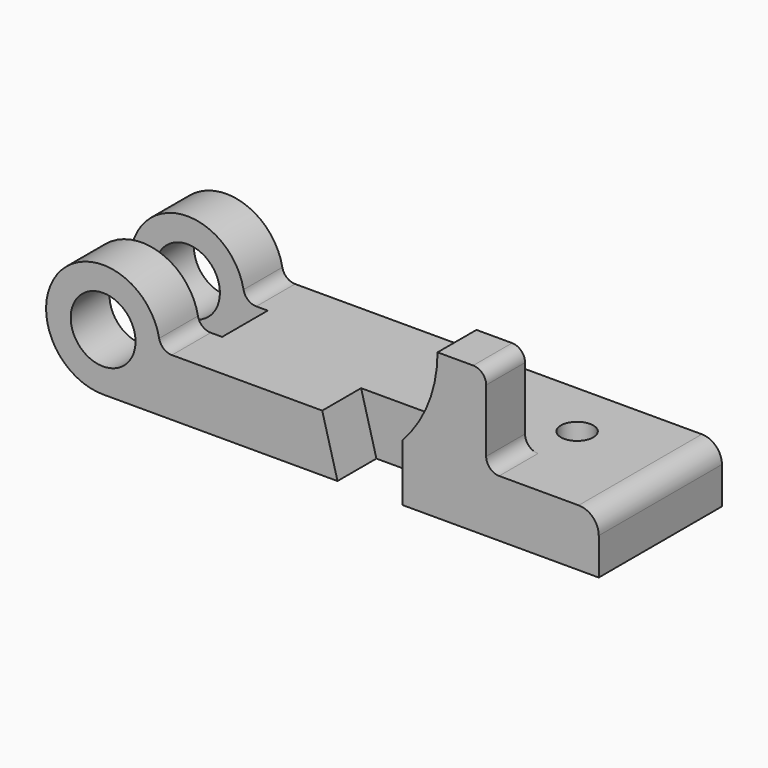
from build123d import *

# Parameters (mm, degrees)
F1_DEPTH      = 60.325
F2_R          = 12.7
F3_DEPTH      = 60.326
F4_DEPTH      = 19.05
F5_W          = 37.9222
F5_H          = 41.275
F6_DEPTH      = 34.798
F7_R          = 6.35
F7_W          = 53.7857485574
F7_H          = 22.3266
F8_DEPTH      = 9.5573214296
F8_DEPTH_BACK = 47.5946785704


with BuildPart() as f1:
    # F0 (on Front) → F1 (new body)
    with BuildSketch(Plane.XZ):
        with BuildLine():
            ThreePointArc((-68.6650304641, 12.7956785704), (-71.9075169357, 13.9650927471), (-73.6571649634, 16.9349378297))
            ThreePointArc((-73.6571649634, 16.9349378297), (-112.8291343827, 27.0626190455), (-95.6225567601, -9.5563214296))
            Line((-95.6225567601, -9.5563214296), (98.5858432399, -9.5563214296))
            Line((98.5858432399, -9.5563214296), (98.5858432399, 4.9216785704))
            ThreePointArc((98.5858432399, 4.9216785704), (96.279602035, 10.4894373655), (90.7118432399, 12.7956785704))
            Line((90.7118432399, 12.7956785704), (59.5460432399, 12.7956785704))
            ThreePointArc((59.5460432399, 12.7956785704), (55.9539407915, 14.283576122), (54.4660432399, 17.8756785704))
            Line((54.4660432399, 17.8756785704), (54.4660432399, 42.5136785704))
            ThreePointArc((54.4660432399, 42.5136785704), (52.9781456883, 46.1057810189), (49.3860432399, 47.5936785704))
            Line((49.3860432399, 47.5936785704), (35.4160432399, 47.5936785704))
            ThreePointArc((35.4160432399, 47.5936785704), (31.8418586015, 28.8780362045), (21.6238432399, 12.7956785704))
            Line((21.6238432399, 12.7956785704), (-68.6650304641, 12.7956785704))
        make_face()
    extrude(amount=F1_DEPTH)

    # F2 (on face) → F3 (cut, through all)
    with BuildSketch(Plane.XZ.offset(60.325)):
        with Locations((-95.6225567601, 12.7956785704)):
            Circle(F2_R)
    extrude(amount=-F3_DEPTH, mode=Mode.SUBTRACT)

    # F2 (on face) → F4 (cut)
    with BuildSketch(Plane.XZ.offset(60.325)):
        Polygon((21.6238432399, 12.7956785704), (-9.7705567601, 12.7956785704), (-3.7761567601, -9.5563214296), (21.6238432399, -9.5563214296), align=None)
    extrude(amount=-F4_DEPTH, mode=Mode.SUBTRACT)

    # F5 (on face) → F6 (cut)
    with BuildSketch(Plane.XY.offset(47.5936785704)):
        with Locations((40.5849432399, -20.6375)):
            Rectangle(F5_W, F5_H)
    extrude(amount=-F6_DEPTH, mode=Mode.SUBTRACT)

    # F7 (on Top) → F8 (cut, two sides)
    with BuildSketch(Plane.XY) as f8_sk:
        with Locations((59.7238432399, -22.352)):
            Circle(F7_R)
        with Locations((-91.0816824814, -30.1625)):
            Rectangle(F7_W, F7_H)
    extrude(amount=-F8_DEPTH, mode=Mode.SUBTRACT)
    extrude(f8_sk.sketch, amount=F8_DEPTH_BACK, mode=Mode.SUBTRACT)


solid = f1.part
